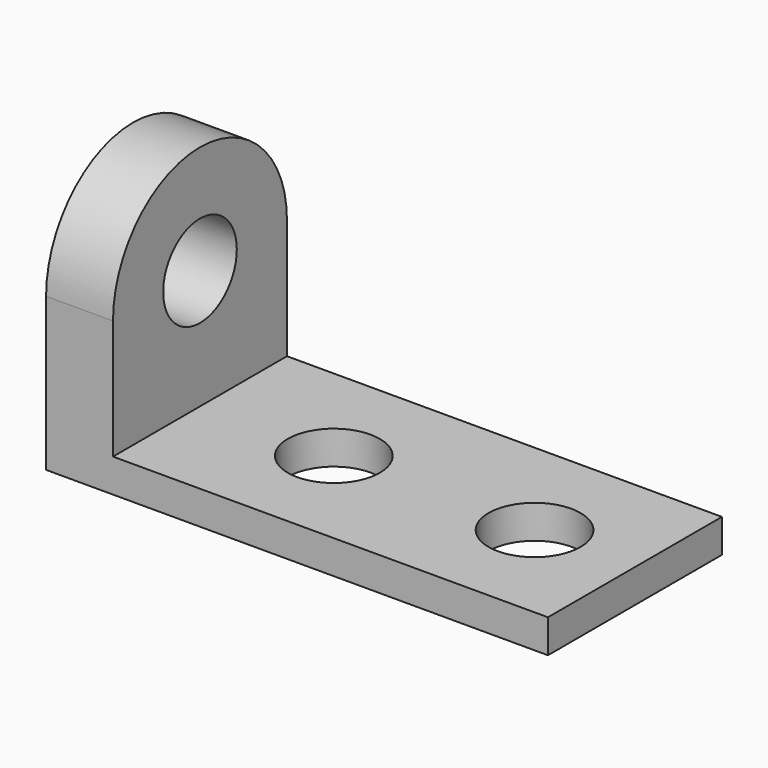
from build123d import *

# Parameters (mm, degrees)
F1_DEPTH = 82.55
F2_R     = 17.4625
F3_DEPTH = 12.7
F5_DEPTH = 25.4
F6_R     = 17.4625
F7_DEPTH = 25.4


with BuildPart() as f1:
    # F0 (on Front) → F1 (new body)
    with BuildSketch(Plane.XZ):
        Polygon((0, 116.06285), (0, 0), (190.5, 0), (190.5, 12.7), (25.4, 12.7), (25.4, 116.06285), align=None)
    extrude(amount=F1_DEPTH)

    # F2 (on face) → F3 (cut)
    with BuildSketch(Plane.XY.offset(12.7)):
        with Locations((76.2, -41.275)):
            Circle(F2_R)
        with Locations((152.4, -41.275)):
            Circle(F2_R)
    extrude(amount=-F3_DEPTH, mode=Mode.SUBTRACT)

    # F4 (on face) → F5 (cut)
    with BuildSketch(Plane(origin=(0, 0, 0), x_dir=(0, -1, 0), z_dir=(-1, 0, 0))):
        with BuildLine():
            ThreePointArc((0, 58.031425), (41.275, 99.306425), (82.55, 58.031425))
            Line((82.55, 58.031425), (82.55, 116.06285))
            Line((82.55, 116.06285), (0, 116.06285))
            Line((0, 116.06285), (0, 58.031425))
        make_face()
    extrude(amount=-F5_DEPTH, mode=Mode.SUBTRACT)

    # F6 (on face) → F7 (cut)
    with BuildSketch(Plane.YZ.offset(25.4)):
        with Locations((-41.275, 58.031425)):
            Circle(F6_R)
    extrude(amount=-F7_DEPTH, mode=Mode.SUBTRACT)


solid = f1.part
